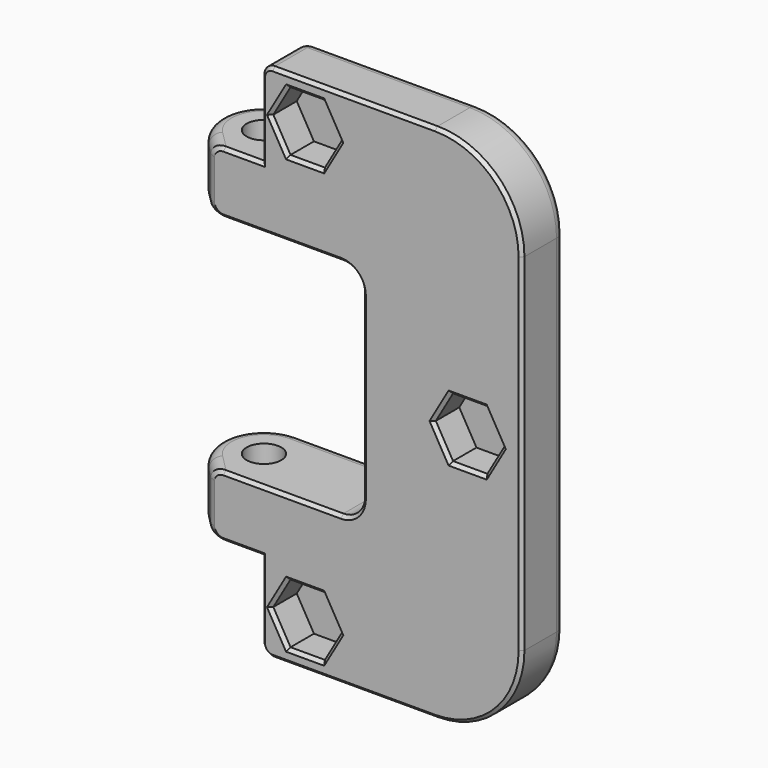
from build123d import *

# Parameters (mm, degrees)
PAD096_DEPTH         = 8
PAD097_DEPTH         = 5
SKETCH440_R          = 1.6
POCKET308_DEPTH      = 24.001
POCKET308_DEPTH_BACK = 24.001
FILLET005_R          = 2
FILLET006_R          = 1
POCKET309_DEPTH      = 3
SKETCH442_R          = 1.75
POCKET310_DEPTH      = 4.701
CHAMFER008_SIZE      = 0.3


with BuildPart() as part:
    # Sketch438 → Pad096 (new body)
    with BuildSketch(Plane.XZ):
        with BuildLine():
            Line((3.3, 10.3), (-11, 10.3))
            Line((-11, 10.3), (-11, 16))
            Line((-11, 16), (10, 16))
            Line((10, 16), (10, -16))
            Line((10, -16), (-11, -16))
            Line((-11, -16), (-11, -10.3))
            Line((-11, -10.3), (3.3, -10.3))
            ThreePointArc((3.3, -10.3), (4.714214, -9.714214), (5.3, -8.3))
            Line((5.3, -8.3), (5.3, 8.3))
            ThreePointArc((5.3, 8.3), (4.714214, 9.714214), (3.3, 10.3))
        make_face()
    extrude(amount=PAD096_DEPTH)

    # Sketch439 → Pad097 (join)
    with BuildSketch(Plane.XZ.offset(8)):
        with BuildLine():
            Line((-4, 16), (-4, 24))
            Line((-4, 24), (12, 24))
            ThreePointArc((20, 16), (17.656854, 21.656854), (12, 24))
            Line((20, 16), (20, -16))
            ThreePointArc((12, -24), (17.656854, -21.656854), (20, -16))
            Line((12, -24), (-4, -24))
            Line((-4, -24), (-4, -16))
            Line((-4, -16), (10, -16))
            Line((10, -16), (10, 16))
            Line((10, 16), (-4, 16))
        make_face()
    extrude(amount=-PAD097_DEPTH)

    # Sketch440 → Pocket308 (cut, two sides)
    with BuildSketch(Plane.XY) as pocket308_sk:
        with Locations((-7, -4)):
            Circle(SKETCH440_R)
        with BuildLine():
            ThreePointArc((-6.999982, 0), (-10.695515, -2.469258), (-9.828427, -6.828427))
            Line((-9.828427, -6.828427), (-8.656854, -8))
            Line((-8.656854, -8), (-11.999982, -8))
            Line((-11.999982, -8), (-11.999982, 0))
            Line((-11.999982, 0), (-6.999982, 0))
        make_face()
    extrude(amount=-POCKET308_DEPTH, mode=Mode.SUBTRACT)
    extrude(pocket308_sk.sketch, amount=POCKET308_DEPTH_BACK, mode=Mode.SUBTRACT)

    # Fillet005
    fillet005_edges = [part.edges().sort_by_distance(p)[0] for p in [
        (10, -1.5, 16),
        (10, -1.5, -16),
    ]]
    fillet(fillet005_edges, radius=FILLET005_R)

    # Fillet006
    fillet006_edges = [part.edges().sort_by_distance(p)[0] for p in [
        (-4, -5.5, -24),
        (-4, -5.5, 24),
        (4, -3, -24),
        (-4, -3, -20),
        (-4, -3, 20),
        (10, 0, 0),
        (5.3, 0, 0),
    ]]
    fillet(fillet006_edges, radius=FILLET006_R)

    # Sketch441 → Pocket309 (cut)
    with BuildSketch(Plane.XZ.offset(8)):
        Polygon((3.175426, 20), (1.587713, 22.75), (-1.587713, 22.75), (-3.175426, 20), (-1.587713, 17.25), (1.587713, 17.25), align=None)
        Polygon((1.587713, -22.75), (3.175426, -20), (1.587713, -17.25), (-1.587713, -17.25), (-3.175426, -20), (-1.587713, -22.75), align=None)
        Polygon((13.412287, -2.75), (16.587713, -2.75), (18.175426, 0), (16.587713, 2.75), (13.412287, 2.75), (11.824574, 0), align=None)
    extrude(amount=-POCKET309_DEPTH, mode=Mode.SUBTRACT)

    # Sketch442 → Pocket310 (cut, through all)
    with BuildSketch(Plane.XZ.offset(4.7)):
        with Locations((0, 20)):
            Circle(SKETCH442_R)
        with Locations((15, 0)):
            Circle(SKETCH442_R)
        with Locations((0, -20)):
            Circle(SKETCH442_R)
    extrude(amount=-POCKET310_DEPTH, mode=Mode.SUBTRACT)

    # Chamfer008
    chamfer008_edges = [part.edges().sort_by_distance(p)[0] for p in [
        (-1.97132, -8, 10.3),
        (-8.156292, -8, 10.536704),
        (4.714214, -8, 9.714214),
        (-8.656854, -8, 13.15),
        (5.3, -8, 0),
        (-8.156292, -8, 15.763296),
        (4.714214, -8, -9.714214),
        (-5.62132, -8, 16),
        (-1.97132, -8, -10.3),
        (-4, -8, 19.5),
        (-8.156292, -8, -10.536704),
        (-3.707107, -8, 23.707107),
        (-8.656854, -8, -13.15),
        (4.5, -8, 24),
        (-8.156292, -8, -15.763296),
        (17.656854, -8, 21.656854),
        (-5.62132, -8, -16),
        (20, -8, 0),
        (-4, -8, -19.5),
        (17.656854, -8, -21.656854),
        (-3.707107, -8, -23.707107),
        (4.5, -8, -24),
        (15, -8, -2.75),
        (17.38157, -8, -1.375),
        (17.38157, -8, 1.375),
        (15, -8, 2.75),
        (12.61843, -8, 1.375),
        (12.61843, -8, -1.375),
        (2.38157, -8, -21.375),
        (2.38157, -8, -18.625),
        (0, -8, -17.25),
        (-2.38157, -8, -18.625),
        (-2.38157, -8, -21.375),
        (0, -8, -22.75),
        (2.38157, -8, 21.375),
        (0, -8, 22.75),
        (-2.38157, -8, 21.375),
        (-2.38157, -8, 18.625),
        (0, -8, 17.25),
        (2.38157, -8, 18.625),
    ]]
    chamfer(chamfer008_edges, length=CHAMFER008_SIZE)


solid = part.part
